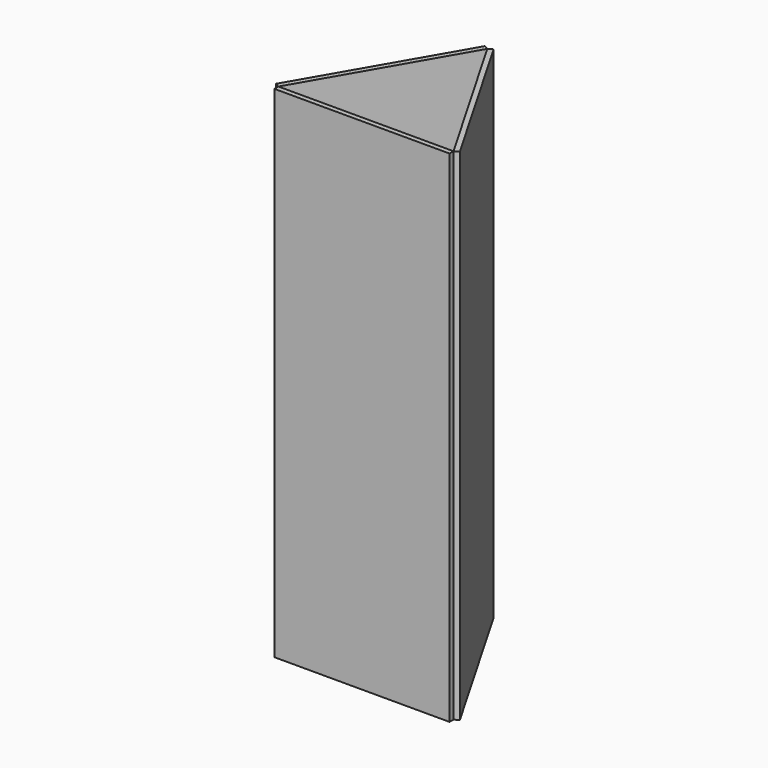
from build123d import *

# Parameters (mm, degrees)
F0_W     = 70
F0_H     = 2
F1_DEPTH = 200


with BuildPart() as f1:
    # F0 (on Top) → F1 (new body)
    with BuildSketch(Plane.XY):
        Polygon((-36.732051, 3), (-35, 2), (0, 62.621778), (-1.732051, 63.621778), align=None)
        with Locations((0, 1)):
            Rectangle(F0_W, F0_H)
        Polygon((0, 62.621778), (35, 2), (36.732051, 3), (1.732051, 63.621778), align=None)
    extrude(amount=F1_DEPTH)


solid = f1.part
